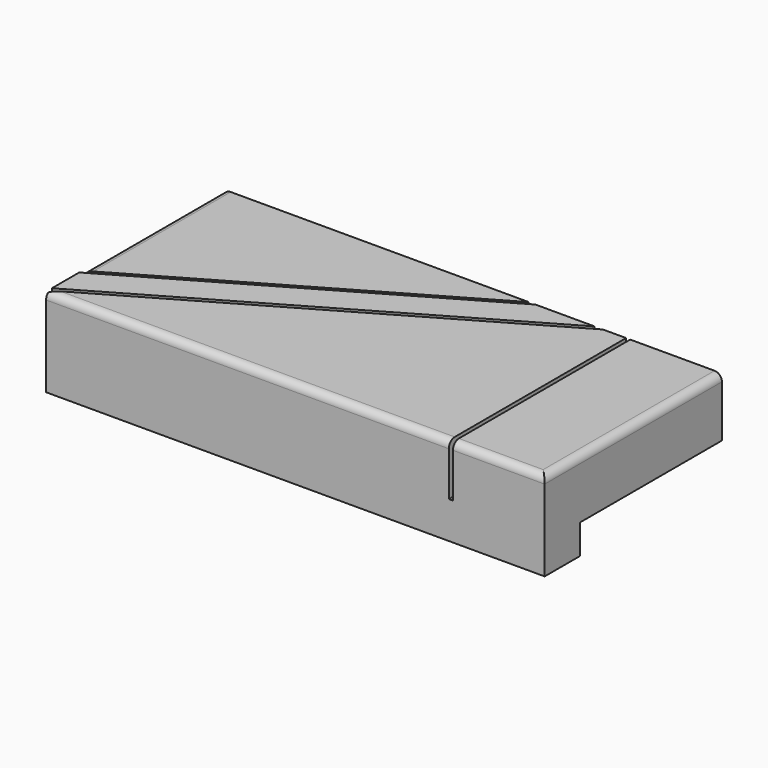
from build123d import *

# Parameters (mm, degrees)
F0_W     = 135
F0_H     = 60
F1_DEPTH = 16
F2_W     = 1.12
F2_H     = 60
F3_DEPTH = 14
F4_R     = 2
F5_W     = 135
F5_H     = 12
F6_DEPTH = 8


with BuildPart() as f1:
    # F0 (on Top) → F1 (new body)
    with BuildSketch(Plane.XY):
        Rectangle(F0_W, F0_H)
    extrude(amount=F1_DEPTH)

    # F2 (on face) → F3 (cut)
    with BuildSketch(Plane.XY.offset(16)):
        Polygon((16.9943201199, 30), (15.1943201199, 30), (-67.5, -17.7435879817), (-67.5, -18.7828184662), align=None)
        Polygon((35.2673136497, 30), (33.0273136497, 30), (-67.5, -28.0394715965), (-67.5, -29.3327361995), align=None)
        with Locations((42.1117129004, 0)):
            Rectangle(F2_W, F2_H)
    extrude(amount=-F3_DEPTH, mode=Mode.SUBTRACT)

    # F4
    f4_edges = [f1.edges().sort_by_distance(p)[0] for p in [
        (-12.974144, -30, 16),
        (-67.5, 6.128206, 16),
        (67.5, 0, 16),
        (55.085856, -30, 16),
    ]]
    fillet(f4_edges, radius=F4_R)

    # F5 (on face) → F6 (join)
    with BuildSketch(Plane(origin=(0, 0, 0), x_dir=(1, 0, 0), z_dir=(0, 0, -1))):
        with Locations((0, 24)):
            Rectangle(F5_W, F5_H)
    extrude(amount=F6_DEPTH)


solid = f1.part
